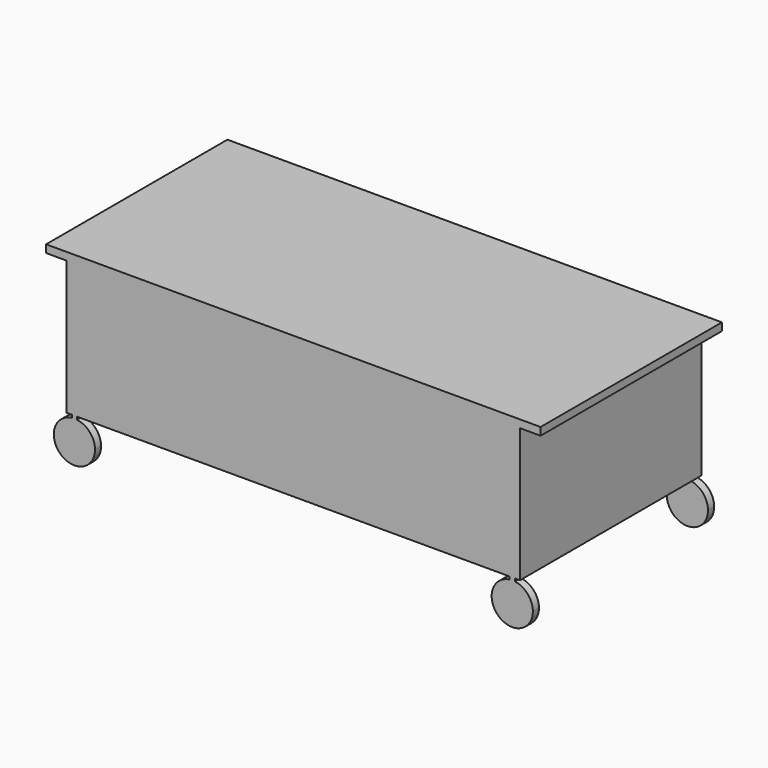
from build123d import *

# Parameters (mm, degrees)
F0_W     = 63.5
F0_H     = 177.8
F1_DEPTH = 558.8
F4_DEPTH = 1412.24
F5_W     = 18.7272608757
F5_H     = 330.1743186474
F6_DEPTH = 1117.6


with BuildPart() as f1:
    # F0 (on Front) → F1 (new body)
    with BuildSketch(Plane.XZ):
        Polygon((-539.75, -165.1), (-533.4, -165.1), (-533.4, -148.0671259786), (-546.1, -148.0671259786), (-546.1, -165.1), align=None)
        Polygon((31.75, 50.8), (520.7, 50.8), (520.7, 88.9), (-520.7, 88.9), (-520.7, 50.8), (-31.75, 50.8), align=None)
        Polygon((-520.7, 165.1), (520.7, 165.1), (558.8, 165.1), (609.6, 165.1), (609.6, 184.15), (-609.6, 184.15), (-609.6, 165.1), (-558.8, 165.1), align=None)
        Polygon((533.4, -148.0671259786), (533.4, -165.1), (539.75, -165.1), (546.1, -165.1), (546.1, -148.0671259786), align=None)
        Polygon((-520.7, -165.1), (520.7, -165.1), (520.7, -127), (31.75, -127), (-31.75, -127), (-520.7, -127), align=None)
        with Locations((0, -38.1)):
            Rectangle(F0_W, F0_H)
        Polygon((520.7, -127), (520.7, -165.1), (533.4, -165.1), (533.4, -148.0671259786), (546.1, -148.0671259786), (546.1, -165.1), (558.8, -165.1), (558.8, 165.1), (520.7, 165.1), (520.7, 88.9), (520.7, 50.8), align=None)
        Polygon((-533.4, -165.1), (-520.7, -165.1), (-520.7, -127), (-520.7, 50.8), (-520.7, 88.9), (-520.7, 165.1), (-558.8, 165.1), (-558.8, -165.1), (-546.1, -165.1), (-546.1, -148.0671259786), (-533.4, -148.0671259786), align=None)
        with BuildLine():
            Line((-539.75, -171.45), (-539.75, -165.1))
            Line((-539.75, -165.1), (-546.1, -165.1))
            Line((-546.1, -165.1), (-546.1, -171.8484375242))
            ThreePointArc((-546.1, -171.8484375242), (-542.9312439572, -171.5497072308), (-539.75, -171.45))
        make_face()
        with BuildLine():
            Line((-533.4, -171.8484375242), (-533.4, -165.1))
            Line((-533.4, -165.1), (-539.75, -165.1))
            Line((-539.75, -165.1), (-539.75, -171.45))
            ThreePointArc((-539.75, -171.45), (-536.5687560428, -171.5497072308), (-533.4, -171.8484375242))
        make_face()
        with BuildLine():
            Line((-533.4, -182.1328740214), (-533.4, -171.8484375242))
            ThreePointArc((-533.4, -171.8484375242), (-536.5687560428, -171.5497072308), (-539.75, -171.45))
            Line((-539.75, -171.45), (-539.75, -182.1328740214))
            Line((-539.75, -182.1328740214), (-533.4, -182.1328740214))
        make_face()
        with BuildLine():
            Line((-539.75, -182.1328740214), (-539.75, -171.45))
            ThreePointArc((-539.75, -171.45), (-542.9312439572, -171.5497072308), (-546.1, -171.8484375242))
            Line((-546.1, -171.8484375242), (-546.1, -182.1328740214))
            Line((-546.1, -182.1328740214), (-539.75, -182.1328740214))
        make_face()
        with BuildLine():
            ThreePointArc((-488.95, -222.25), (-501.65, -188.6489583495), (-533.4, -171.8484375242))
            Line((-533.4, -171.8484375242), (-533.4, -182.1328740214))
            Line((-533.4, -182.1328740214), (-539.75, -182.1328740214))
            Line((-539.75, -182.1328740214), (-546.1, -182.1328740214))
            Line((-546.1, -182.1328740214), (-546.1, -171.8484375242))
            ThreePointArc((-546.1, -171.8484375242), (-573.3510416505, -260.35), (-488.95, -222.25))
        make_face()
        with BuildLine():
            Line((539.75, -165.1), (533.4, -165.1))
            Line((533.4, -165.1), (533.4, -171.8484375242))
            ThreePointArc((533.4, -171.8484375242), (536.5687560428, -171.5497072308), (539.75, -171.45))
            Line((539.75, -171.45), (539.75, -165.1))
        make_face()
        with BuildLine():
            ThreePointArc((539.75, -171.45), (536.5687560428, -171.5497072308), (533.4, -171.8484375242))
            Line((533.4, -171.8484375242), (533.4, -182.1328740214))
            Line((533.4, -182.1328740214), (539.75, -182.1328740214))
            Line((539.75, -182.1328740214), (539.75, -171.45))
        make_face()
        with BuildLine():
            Line((546.1, -165.1), (539.75, -165.1))
            Line((539.75, -165.1), (539.75, -171.45))
            ThreePointArc((539.75, -171.45), (542.9312439572, -171.5497072308), (546.1, -171.8484375242))
            Line((546.1, -171.8484375242), (546.1, -165.1))
        make_face()
        with BuildLine():
            ThreePointArc((546.1, -171.8484375242), (542.9312439572, -171.5497072308), (539.75, -171.45))
            Line((539.75, -171.45), (539.75, -182.1328740214))
            Line((539.75, -182.1328740214), (546.1, -182.1328740214))
            Line((546.1, -182.1328740214), (546.1, -171.8484375242))
        make_face()
        with BuildLine():
            Line((533.4, -182.1328740214), (533.4, -171.8484375242))
            ThreePointArc((533.4, -171.8484375242), (506.1489583495, -260.35), (590.55, -222.25))
            ThreePointArc((590.55, -222.25), (577.85, -188.6489583495), (546.1, -171.8484375242))
            Line((546.1, -171.8484375242), (546.1, -182.1328740214))
            Line((546.1, -182.1328740214), (539.75, -182.1328740214))
            Line((539.75, -182.1328740214), (533.4, -182.1328740214))
        make_face()
    extrude(amount=F1_DEPTH)

    # F3 (on offset) → F4 (cut)
    with BuildSketch(Plane(origin=(-762, 0, 0), x_dir=(0, -1, 0), z_dir=(-1, 0, 0))):
        Polygon((540.0727391243, -165.0743186474), (19.05, -165.0743186474), (19.05, -171.5670526028), (19.05, -304.82172966), (540.0727391243, -304.82172966), (540.0727391243, -173.7104952335), align=None)
    extrude(amount=-F4_DEPTH, mode=Mode.SUBTRACT)

    # F5 (on face) → F6 (join)
    with BuildSketch(Plane.YZ.offset(558.8)):
        with Locations((-549.4363695621, 0.0128406763)):
            Rectangle(F5_W, F5_H)
    extrude(amount=-F6_DEPTH)


solid = f1.part
